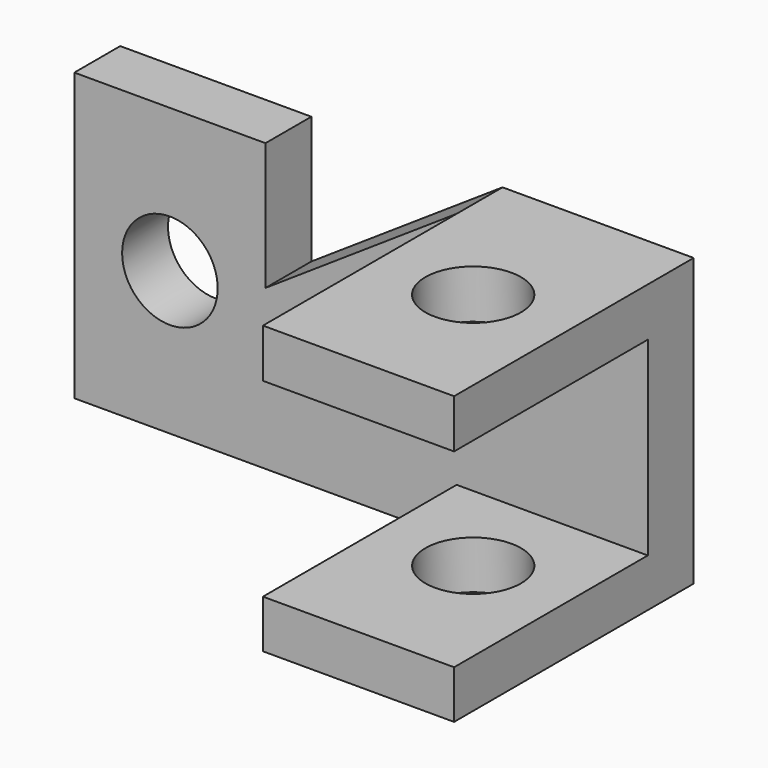
from build123d import *

# Parameters (mm, degrees)
F1_DEPTH       = 25.4
F2_DEPTH       = 203.2
F3_W           = 762
F3_H           = 193.8281174898
F3_H_2         = 191.8793287277
F4_DEPTH       = 965.2
F7_D           = 381
F7_DEPTH       = 203.2
F7_TIP         = 114.4639479248
F7_ON_F6_D     = 381
F7_ON_F6_DEPTH = 203.2
F7_ON_F6_TIP   = 114.4639479248
F9_D           = 381
F9_DEPTH       = 381
F9_TIP         = 114.4639479248


with BuildPart() as f1:
    # F0 (on Front) → F1 (new body)
    with BuildSketch(Plane.XZ):
        Polygon((-566.4698105954, 324.5866265297), (-1328.4698105954, 324.5866265297), (-1328.4698105954, -818.4133734703), (957.5301894046, -818.4133734703), (957.5301894046, 324.5866265297), (195.5301894046, 324.5866265297), (-566.4698105954, -183.4133734703), align=None)
    extrude(amount=F1_DEPTH)

    # F2 (add): a face of the model
    f2_faces = [f1.faces().sort_by_distance(p)[0] for p in [
        (-175.3098105954, -25.4, -279.0867068036),
    ]]
    extrude(f2_faces, amount=F2_DEPTH)

    # F3 (on face) → F4 (join)
    with BuildSketch(Plane.XZ.offset(228.6)):
        with Locations((576.5301894046, 227.6725677848)):
            Rectangle(F3_W, F3_H)
        with Locations((576.5301894046, -722.4737091064)):
            Rectangle(F3_W, F3_H_2)
    extrude(amount=F4_DEPTH)

    # F7
    with Locations(Plane.XY.offset(324.5866265297)):
        with Locations((576.5301894046, -622.3)):
            Hole(F7_D / 2, depth=F7_DEPTH)
            with Locations((0, 0, -(F7_DEPTH + F7_TIP / 2))):  # 118° drill point
                Cone(0, F7_D / 2, F7_TIP, mode=Mode.SUBTRACT)

    # F7 on F6 (one way)
    with BuildSketch(Plane.XY.offset(-626.5340447426)):
        with Locations((576.5301894046, -622.3)):
            Circle(F7_ON_F6_D / 2)
    extrude(amount=-F7_ON_F6_DEPTH, mode=Mode.SUBTRACT)
    with Locations(Plane.XY.offset(-626.5340447426)):
        with Locations((576.5301894046, -622.3)):
            with Locations((0, 0, -(F7_ON_F6_DEPTH + F7_ON_F6_TIP / 2))):  # 118° drill point
                Cone(0, F7_ON_F6_D / 2, F7_ON_F6_TIP, mode=Mode.SUBTRACT)

    # F9
    with Locations(Plane.XZ.offset(228.6)):
        with Locations((-947.4698105954, -246.9133734703)):
            Hole(F9_D / 2, depth=F9_DEPTH)
            with Locations((0, 0, -(F9_DEPTH + F9_TIP / 2))):  # 118° drill point
                Cone(0, F9_D / 2, F9_TIP, mode=Mode.SUBTRACT)


solid = f1.part
